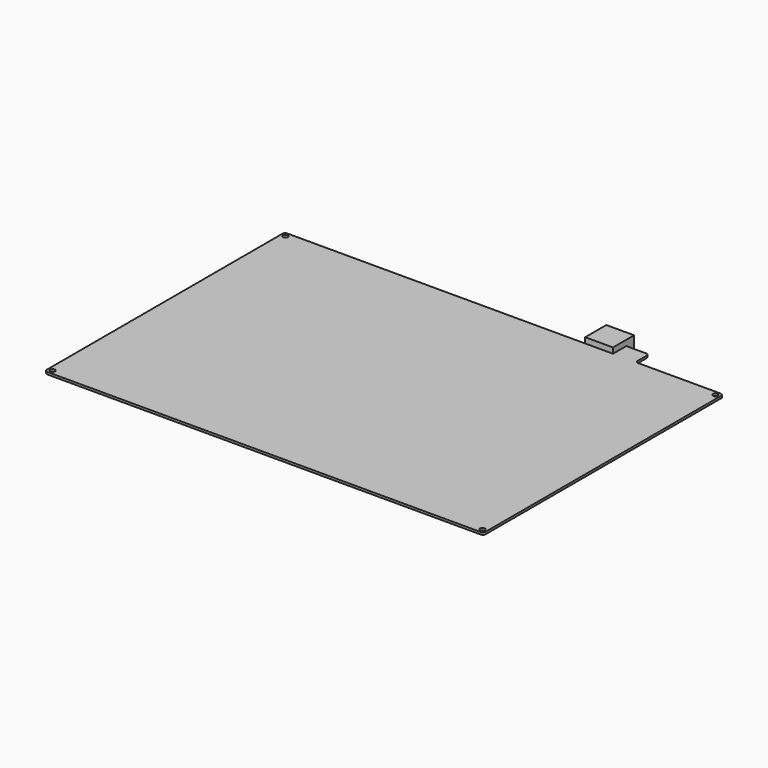
from build123d import *

# Parameters (mm, degrees)
F0_R     = 1.725
F1_DEPTH = 1.6
F3_DEPTH = 19


with BuildPart() as f1:
    # F0 (on Top) → F1 (new body)
    with BuildSketch(Plane.XY):
        with BuildLine():
            ThreePointArc((158, 106), (157.414214, 107.414214), (156, 108))
            Line((156, 108), (96.75, 108))
            ThreePointArc((96.75, 108), (95.335786, 108.585786), (94.75, 110))
            Line((94.75, 110), (94.75, 118))
            ThreePointArc((94.75, 118), (94.164214, 119.414214), (92.75, 120))
            Line((92.75, 120), (58.5, 120))
            Line((58.5, 120), (58.5, 108))
            Line((58.5, 108), (-156, 108))
            ThreePointArc((-156, 108), (-157.414214, 107.414214), (-158, 106))
            Line((-158, 106), (-158, -106))
            ThreePointArc((-158, -106), (-157.414214, -107.414214), (-156, -108))
            Line((-156, -108), (156, -108))
            ThreePointArc((156, -108), (157.414214, -107.414214), (158, -106))
            Line((158, -106), (158, 106))
        make_face()
        with Locations((-154.775, -104.775)):
            Circle(F0_R, mode=Mode.SUBTRACT)
        with Locations((154.775, -104.775)):
            Circle(F0_R, mode=Mode.SUBTRACT)
        with Locations((-154.775, 104.775)):
            Circle(F0_R, mode=Mode.SUBTRACT)
        with Locations((154.775, 104.775)):
            Circle(F0_R, mode=Mode.SUBTRACT)
    extrude(amount=F1_DEPTH)

    # F2 (on face) → F3 (join)
    with BuildSketch(Plane(origin=(0, 108, 0), x_dir=(-1, 0, 0), z_dir=(0, 1, 0))):
        Polygon((-58.5, 1.6), (-58.5, 5.6), (-78.5, 5.6), (-78.5, -9.4), (-58.5, -9.4), (-58.5, 0), align=None)
    extrude(amount=F3_DEPTH)


solid = f1.part
